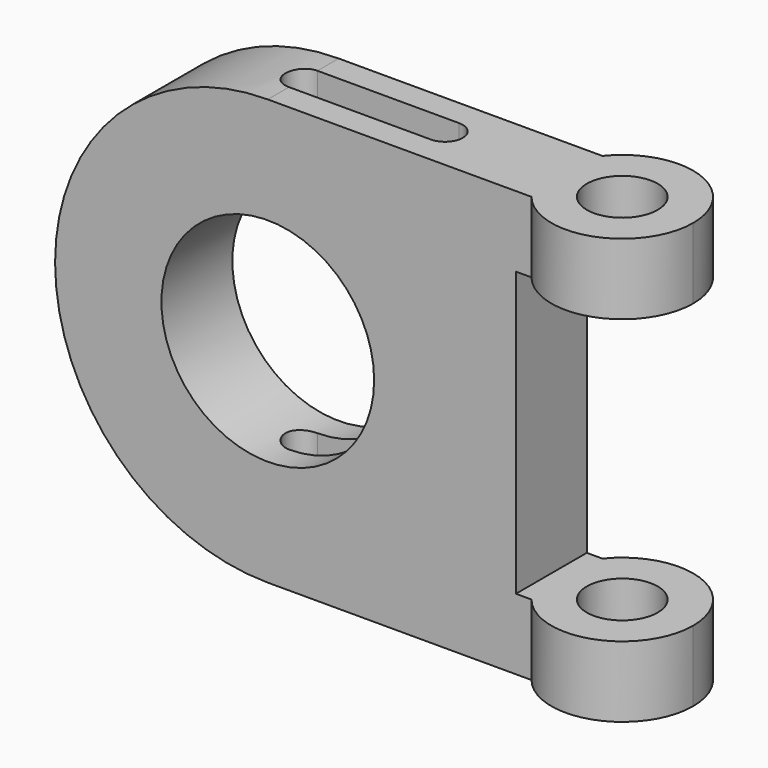
from build123d import *

# Parameters (mm, degrees)
F0_R     = 38.1
F1_DEPTH = 15.875
F3_DEPTH = 238.50152
F4_R     = 12.7
F5_DEPTH = 25.4
F6_R     = 12.7
F7_DEPTH = 25.4


with BuildPart() as f1:
    # F0 (on Front) → F1 (new body, symmetric)
    with BuildSketch(Plane.XZ):
        with BuildLine():
            Line((88.9, 76.2), (0, 76.2))
            ThreePointArc((0, 76.2), (-76.2, 0), (0, -76.2))
            Line((0, -76.2), (88.9, -76.2))
            Line((88.9, -76.2), (88.9, 76.2))
        make_face()
        Circle(F0_R, mode=Mode.SUBTRACT)
    extrude(amount=F1_DEPTH, both=True)

    # F2 (on face) → F3 (cut, symmetric)
    with BuildSketch(Plane.XY.offset(76.2)):
        with BuildLine():
            Line((50.8, 6.35), (0, 6.35))
            ThreePointArc((0, 6.35), (-6.35, 0), (0, -6.35))
            Line((0, -6.35), (50.8, -6.35))
            ThreePointArc((50.8, -6.35), (57.15, 0), (50.8, 6.35))
        make_face()
    extrude(amount=F3_DEPTH, both=True, mode=Mode.SUBTRACT)

    # F4 (on face) → F5 (join)
    with BuildSketch(Plane.XY.offset(76.2)):
        with BuildLine():
            Line((88.9, -15.875), (94.472131, -15.875))
            ThreePointArc((94.472131, -15.875), (90.333483, -8.412257), (88.9, 0))
            Line((88.9, 0), (88.9, -15.875))
        make_face()
        with BuildLine():
            ThreePointArc((94.472131, -15.875), (122.712257, -23.966517), (139.7, 0))
            ThreePointArc((139.7, 0), (122.712257, 23.966517), (94.472131, 15.875))
            ThreePointArc((94.472131, 15.875), (90.333483, 8.412257), (88.9, 0))
            ThreePointArc((88.9, 0), (90.333483, -8.412257), (94.472131, -15.875))
        make_face()
        with Locations((114.3, 0)):
            Circle(F4_R, mode=Mode.SUBTRACT)
        with BuildLine():
            ThreePointArc((88.9, 0), (90.333483, 8.412257), (94.472131, 15.875))
            Line((94.472131, 15.875), (88.9, 15.875))
            Line((88.9, 15.875), (88.9, 0))
        make_face()
    extrude(amount=-F5_DEPTH)

    # F6 (on face) → F7 (join)
    with BuildSketch(Plane(origin=(0, 0, -76.2), x_dir=(1, 0, 0), z_dir=(0, 0, -1))):
        with BuildLine():
            ThreePointArc((94.472131, -15.875), (122.712257, -23.966517), (139.7, 0))
            ThreePointArc((139.7, 0), (122.712257, 23.966517), (94.472131, 15.875))
            ThreePointArc((94.472131, 15.875), (90.333483, 8.412257), (88.9, 0))
            ThreePointArc((88.9, 0), (90.333483, -8.412257), (94.472131, -15.875))
        make_face()
        with Locations((114.3, 0)):
            Circle(F6_R, mode=Mode.SUBTRACT)
        with BuildLine():
            ThreePointArc((88.9, 0), (90.333483, 8.412257), (94.472131, 15.875))
            Line((94.472131, 15.875), (88.9, 15.875))
            Line((88.9, 15.875), (88.9, 0))
        make_face()
        with BuildLine():
            Line((88.9, -15.875), (94.472131, -15.875))
            ThreePointArc((94.472131, -15.875), (90.333483, -8.412257), (88.9, 0))
            Line((88.9, 0), (88.9, -15.875))
        make_face()
    extrude(amount=-F7_DEPTH)


solid = f1.part
